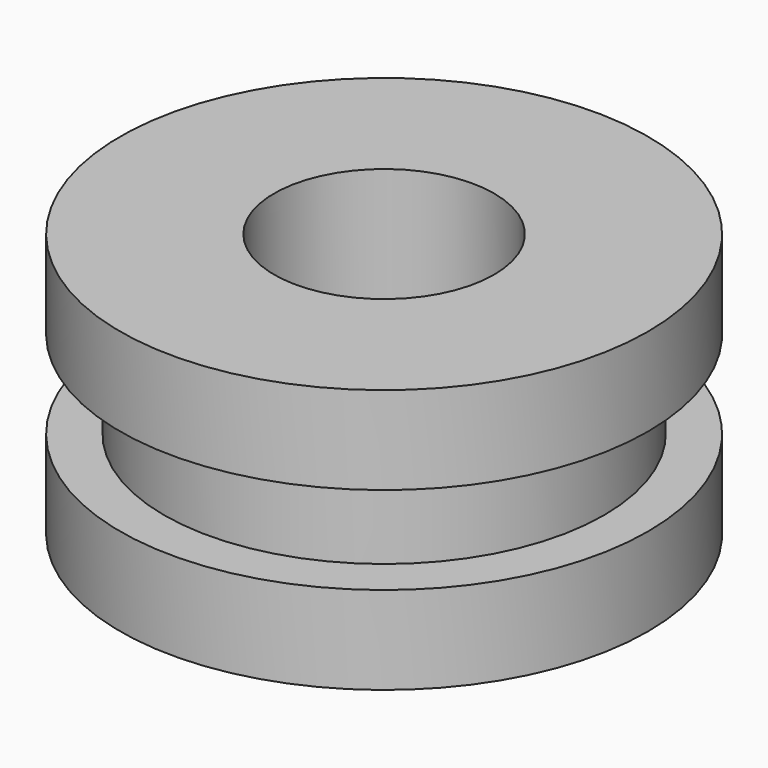
from build123d import *

# Parameters (mm, degrees)
SKETCH_R     = 6
PAD_DEPTH    = 2
SKETCH001_R  = 5
PAD001_DEPTH = 2
SKETCH002_R  = 6
PAD002_DEPTH = 2
SKETCH003_R  = 2.5
POCKET_DEPTH = 6.001


with BuildPart() as part:
    # Sketch → Pad (new body)
    with BuildSketch(Plane.XY):
        Circle(SKETCH_R)
    extrude(amount=PAD_DEPTH)

    # Sketch001 (on Face3 of Pad) → Pad001 (join)
    with BuildSketch(Plane.XY.offset(2)):
        Circle(SKETCH001_R)
    extrude(amount=PAD001_DEPTH)

    # Sketch002 (on Face5 of Pad001) → Pad002 (join)
    with BuildSketch(Plane.XY.offset(4)):
        Circle(SKETCH002_R)
    extrude(amount=PAD002_DEPTH)

    # Sketch003 (on Face3 of Pad002) → Pocket (cut, through all)
    with BuildSketch(Plane.XY.offset(6)):
        Circle(SKETCH003_R)
    extrude(amount=-POCKET_DEPTH, mode=Mode.SUBTRACT)


solid = part.part
